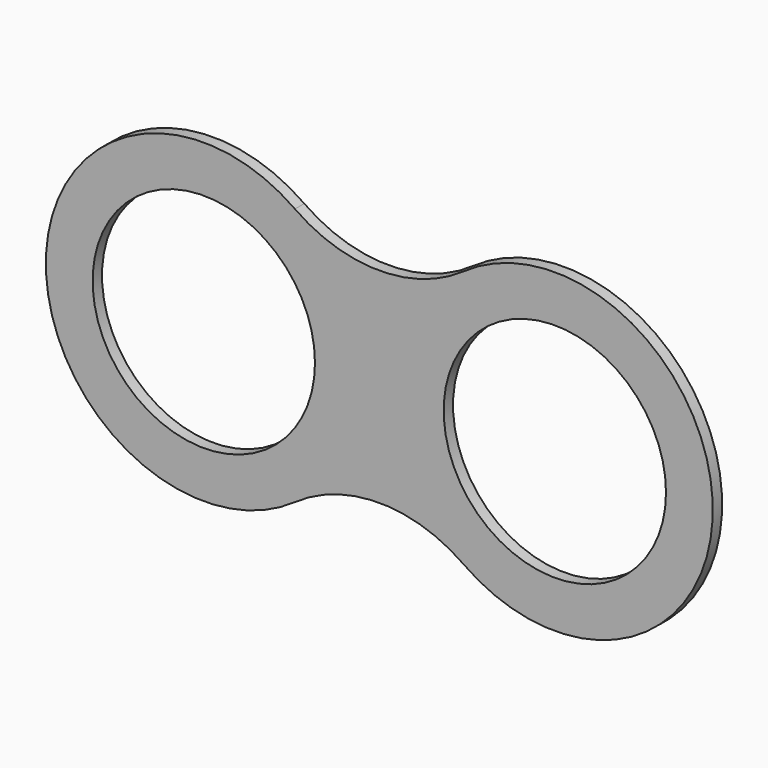
from build123d import *

# Parameters (mm, degrees)
F0_R     = 9.5
F1_DEPTH = 1


with BuildPart() as f1:
    # F0 (on Front) → F1 (new body)
    with BuildSketch(Plane.XZ):
        with BuildLine():
            ThreePointArc((22.211538, 11.02678), (15, 8.736761), (7.788462, 11.02678))
            ThreePointArc((7.788462, 11.02678), (-13.5, 0), (7.788462, -11.02678))
            ThreePointArc((7.788462, -11.02678), (15, -8.736761), (22.211538, -11.02678))
            ThreePointArc((22.211538, -11.02678), (43.5, 0), (22.211538, 11.02678))
        make_face()
        Circle(F0_R, mode=Mode.SUBTRACT)
        with Locations((30, 0)):
            Circle(F0_R, mode=Mode.SUBTRACT)
    extrude(amount=F1_DEPTH)


solid = f1.part
